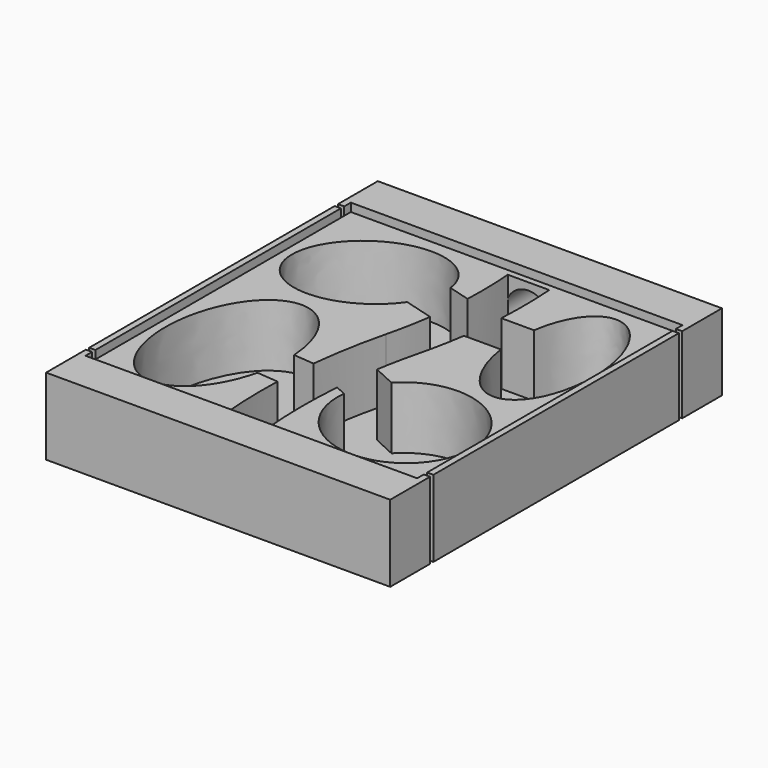
from build123d import *

# Parameters (mm, degrees)
SKETCH_W      = 80
SKETCH_H      = 80
PAD_DEPTH     = 1.5
PAD001_DEPTH  = 18.5
SKETCH002_W   = 80
SKETCH002_H   = 80
PAD002_DEPTH  = 16.5
SKETCH003_R   = 5.5
HOLE_DEPTH    = 11.5
SKETCH004_R   = 5.5
HOLE001_DEPTH = 11.5


with BuildPart() as part:
    # Sketch → Pad (new body)
    with BuildSketch(Plane.XY):
        with Locations((40, 40)):
            Rectangle(SKETCH_W, SKETCH_H)
    extrude(amount=PAD_DEPTH)

    # Sketch001 → Pad001 (join)
    with BuildSketch(Plane.XY):
        Polygon((40, 0), (0, 0), (0, 2), (-1.5, 2), (-1.5, -10), (40, -10), (81.5, -10), (81.5, 2), (80, 2), (80, 0), align=None)
        Polygon((-1.5, 3), (-1.5, 40), (-1.5, 77), (0, 77), (0, 40), (0, 3), align=None)
        Polygon((81.5, 3), (81.5, 40), (81.5, 77), (80, 77), (80, 40), (80, 3), align=None)
        Polygon((40, 80), (0, 80), (0, 78), (-1.5, 78), (-1.5, 90), (40, 90), (81.5, 90), (81.5, 78), (80, 78), (80, 80), align=None)
    extrude(amount=PAD001_DEPTH)

    # Sketch002 → Pad002 (join)
    with BuildSketch(Plane.XY):
        with Locations((40, 40)):
            Rectangle(SKETCH002_W, SKETCH002_H)
        with BuildLine():
            add(Edge.make_bspline(
                [(28.086304, 27.789501), (26.241123, 57.70492), (9.280553, 41.408917), (-7.680017, 25.112913), (6.2435, 6.802564), (20.167018, -11.507785), (27.212065, 17.827789)],
                knots=[1.832163, 1.832163, 1.832163, 3.76702, 3.76702, 5.701876, 5.701876, 7.636732, 7.636732, 7.636732], degree=2, weights=[1, 0.567419, 1, 0.567419, 1, 0.567419, 1]))
            Line((27.212065, 17.827789), (32.416315, 17.371064))
            ThreePointArc((32.416315, 17.371064), (32.381708, 9.429626), (32.816054, 1.5))
            Line((32.816054, 1.5), (42.816054, 1.5))
            ThreePointArc((42.816054, 1.5), (42.303337, 12.014166), (42.680775, 22.534057))
            Line((42.680775, 22.534057), (45.281962, 21.337193))
            add(Edge.make_bspline(
                [(45.281962, 21.337193), (42.750419, -0.953038), (64.9966, 3.249214), (87.242781, 7.451466), (75.988143, 27.137519), (64.733505, 46.823572), (49.461936, 30.421675)],
                knots=[3.500214, 3.500214, 3.500214, 5.386051, 5.386051, 7.271887, 7.271887, 9.157724, 9.157724, 9.157724], degree=2, weights=[1, 0.587429, 1, 0.587429, 1, 0.587429, 1]))
            Line((49.461936, 30.421675), (43.951019, 32.957371))
            ThreePointArc((43.951019, 32.957371), (44.871412, 37.934168), (45.993365, 42.869434))
            ThreePointArc((45.993365, 42.869434), (47.214694, 48.353469), (48.16333, 53.891192))
            Line((48.16333, 53.891192), (57.083088, 53.891192))
            add(Edge.make_bspline(
                [(57.083088, 53.891192), (60.938625, 26.491534), (73.222959, 40.707779), (85.507292, 54.924024), (73.222959, 72.569319), (60.938625, 90.214614), (57.083088, 63.891192)],
                knots=[1.725515, 1.725515, 1.725515, 3.646496, 3.646496, 5.567476, 5.567476, 7.488457, 7.488457, 7.488457], degree=2, weights=[1, 0.573118, 1, 0.573118, 1, 0.573118, 1]))
            Line((57.083088, 63.891192), (49.173342, 63.891192))
            ThreePointArc((49.173342, 63.891192), (49.350328, 71.197468), (49.057049, 78.5))
            Line((49.057049, 78.5), (39.057049, 78.5))
            ThreePointArc((39.057049, 78.5), (39.363412, 72.286461), (39.296295, 66.065737))
            Line((39.296295, 66.065737), (33.956421, 67.584457))
            add(Edge.make_bspline(
                [(33.956421, 67.584457), (31.880157, 85.338378), (12.065637, 74.25758), (-7.748883, 63.176782), (5.668532, 51.76513), (19.085948, 40.353477), (31.2208, 57.965913)],
                knots=[5.954368, 5.954368, 5.954368, 7.815405, 7.815405, 9.676442, 9.676442, 11.537479, 11.537479, 11.537479], degree=2, weights=[1, 0.597418, 1, 0.597418, 1, 0.597418, 1]))
            Line((31.2208, 57.965913), (38.382009, 55.929185))
            ThreePointArc((38.382009, 55.929185), (37.489076, 50.576082), (36.317059, 45.27708))
            ThreePointArc((36.317059, 45.27708), (34.417994, 36.366193), (33.126817, 27.347146))
            Line((33.126817, 27.347146), (28.086304, 27.789501))
        make_face(mode=Mode.SUBTRACT)
    extrude(amount=PAD002_DEPTH)

    # Sketch003 (on Face2 of Pad002) → Hole (cut)
    with BuildSketch(Plane(origin=(40, 90, 9.25), x_dir=(0, 0, 1), z_dir=(0, 1, 0))):
        with Locations((0, 4.057049)):
            Circle(SKETCH003_R)
    extrude(amount=-HOLE_DEPTH, mode=Mode.SUBTRACT)

    # Sketch004 (on Face68 of Hole) → Hole001 (cut)
    with BuildSketch(Plane(origin=(40, -10, 9.25), x_dir=(0, 0, 1), z_dir=(0, 1, 0))):
        with Locations((0, -2.183946)):
            Circle(SKETCH004_R)
    extrude(amount=-HOLE001_DEPTH, mode=Mode.SUBTRACT)


solid = part.part
